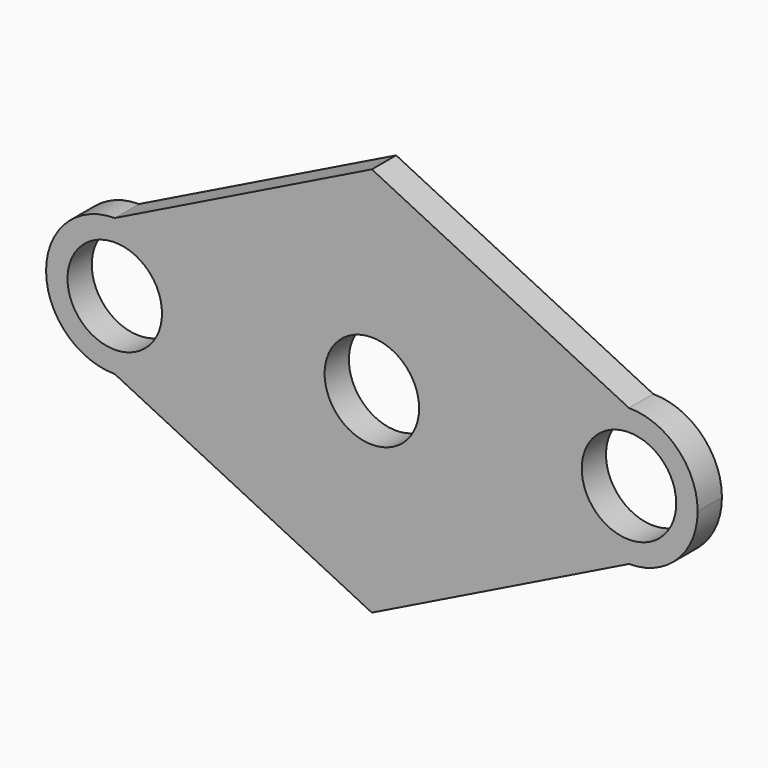
from build123d import *

# Parameters (mm, degrees)
F0_R     = 10.894565
F1_DEPTH = 7


with BuildPart() as f1:
    # F0 (on Front) → F1 (new body)
    with BuildSketch(Plane.XZ):
        with BuildLine():
            ThreePointArc((-43.45474, 0), (-48.092824, 11.197327), (-59.290151, 15.835411))
            ThreePointArc((-59.290151, 15.835411), (-75.125562, 0), (-59.290151, -15.835411))
            ThreePointArc((-59.290151, -15.835411), (-48.092824, -11.197327), (-43.45474, 0))
        make_face()
        with Locations((-59.290151, 0)):
            Circle(F0_R, mode=Mode.SUBTRACT)
        Polygon((59.290151, -15.835411), (0, -15.835411), (-59.290151, -15.835411), (0, -45), align=None)
        Polygon((-59.290151, 15.835411), (0, 15.835411), (59.290151, 15.835411), (0, 45), align=None)
        with BuildLine():
            ThreePointArc((0, 15.835411), (11.197327, 11.197327), (15.835411, 0))
            ThreePointArc((15.835411, 0), (11.197327, -11.197327), (0, -15.835411))
            Line((0, -15.835411), (59.290151, -15.835411))
            ThreePointArc((59.290151, -15.835411), (43.45474, 0), (59.290151, 15.835411))
            Line((59.290151, 15.835411), (0, 15.835411))
        make_face()
        with BuildLine():
            ThreePointArc((0, -15.835411), (-15.835411, 0), (0, 15.835411))
            Line((0, 15.835411), (-59.290151, 15.835411))
            ThreePointArc((-59.290151, 15.835411), (-48.092824, 11.197327), (-43.45474, 0))
            ThreePointArc((-43.45474, 0), (-48.092824, -11.197327), (-59.290151, -15.835411))
            Line((-59.290151, -15.835411), (0, -15.835411))
        make_face()
        with BuildLine():
            ThreePointArc((75.125562, 0), (70.487478, 11.197327), (59.290151, 15.835411))
            ThreePointArc((59.290151, 15.835411), (43.45474, 0), (59.290151, -15.835411))
            ThreePointArc((59.290151, -15.835411), (70.487478, -11.197327), (75.125562, 0))
        make_face()
        with Locations((59.290151, 0)):
            Circle(F0_R, mode=Mode.SUBTRACT)
        with BuildLine():
            ThreePointArc((0, -15.835411), (11.197327, -11.197327), (15.835411, 0))
            ThreePointArc((15.835411, 0), (11.197327, 11.197327), (0, 15.835411))
            ThreePointArc((0, 15.835411), (-15.835411, 0), (0, -15.835411))
        make_face()
        Circle(F0_R, mode=Mode.SUBTRACT)
    extrude(amount=F1_DEPTH)


solid = f1.part
